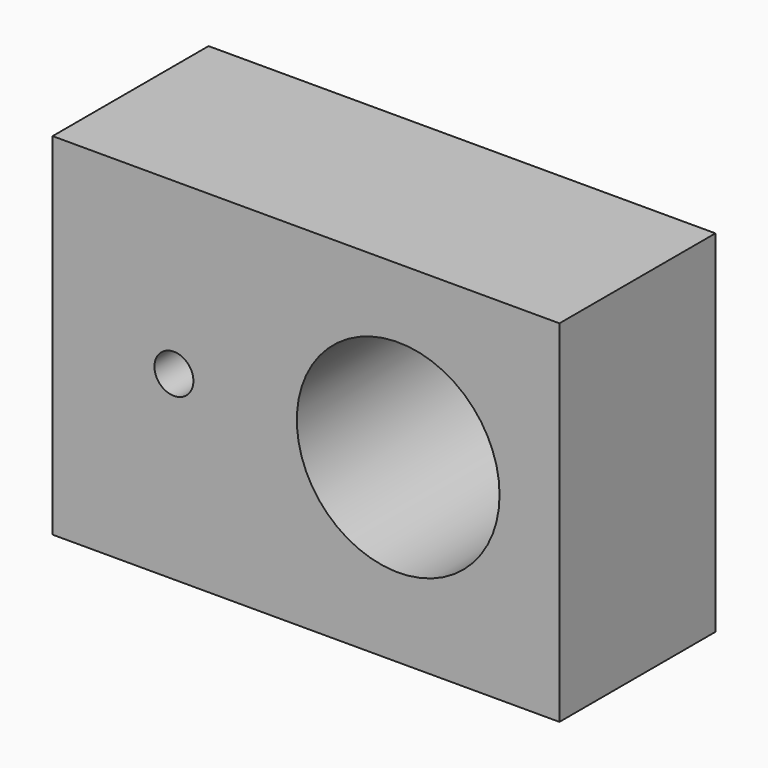
from build123d import *

# Parameters (mm, degrees)
F0_W     = 65
F0_H     = 45
F1_DEPTH = 25
F3_D     = 5
F3_DEPTH = 12
F3_TIP   = 1.5021515476
F4_R     = 13
F5_DEPTH = 25.001


with BuildPart() as f1:
    # F0 (on Front) → F1 (new body)
    with BuildSketch(Plane.XZ):
        with Locations((-1.1299671605, -0.7227190264)):
            Rectangle(F0_W, F0_H)
    extrude(amount=F1_DEPTH)

    # F3
    with Locations(Plane.XZ.offset(25)):
        with Locations((-18.0727501515, 0)):
            Hole(F3_D / 2, depth=F3_DEPTH)
            with Locations((0, 0, -(F3_DEPTH + F3_TIP / 2))):  # 118° drill point
                Cone(0, F3_D / 2, F3_TIP, mode=Mode.SUBTRACT)

    # F4 (on face) → F5 (cut, through all)
    with BuildSketch(Plane.XZ.offset(25)):
        with Locations((10.6912245974, -0.0869205323)):
            Circle(F4_R)
    extrude(amount=-F5_DEPTH, mode=Mode.SUBTRACT)


solid = f1.part
